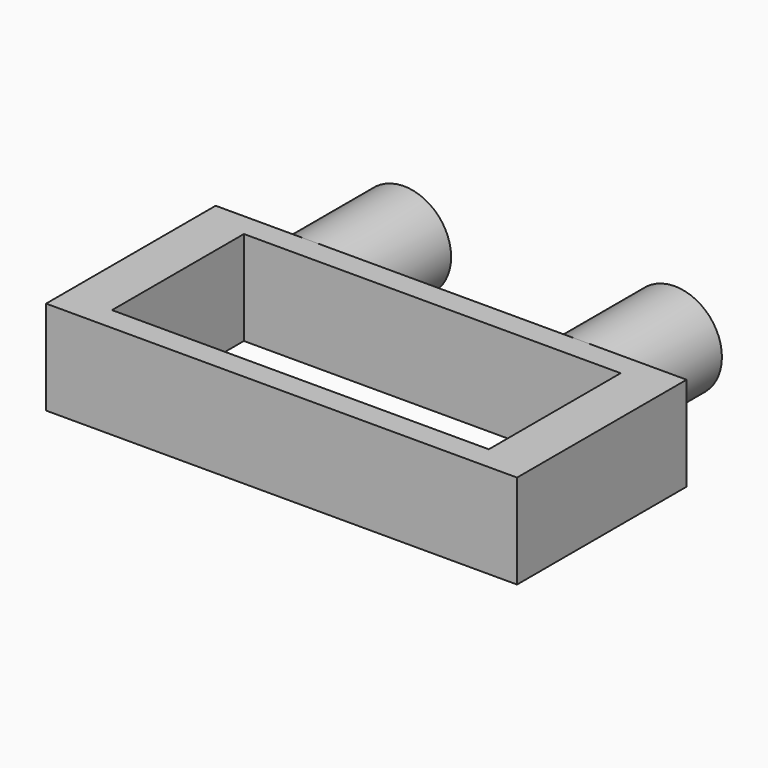
from build123d import *

# Parameters (mm, degrees)
CYLINDER_R             = 4
CYLINDER_DEPTH         = 10
CYLINDER_ROLL_ANGLE    = 90
CYLINDER001_R          = 4
CYLINDER001_DEPTH      = 10
CYLINDER001_ROLL_ANGLE = 90
SKETCH_W               = 40
SKETCH_H               = 18
SKETCH_W_2             = 32
SKETCH_H_2             = 14
PAD_DEPTH              = 4


with BuildPart() as cylinder:
    # Cylinder → Cylinder (new body)
    with BuildSketch(Plane.XY):
        Circle(CYLINDER_R)
    extrude(amount=CYLINDER_DEPTH)


with BuildPart() as cylinder_1:
    # Cylinder roll: moved
    add(cylinder.part.rotate(Axis((0, 0, 0), (1, 0, 0)), CYLINDER_ROLL_ANGLE))


with BuildPart() as cylinder_2:
    # Cylinder placement: moved
    add(cylinder_1.part)


with BuildPart() as cylinder001:
    # Cylinder001 → Cylinder001 (new body)
    with BuildSketch(Plane.XY):
        Circle(CYLINDER001_R)
    extrude(amount=CYLINDER001_DEPTH)


with BuildPart() as cylinder001_1:
    # Cylinder001 roll: moved
    add(cylinder001.part.rotate(Axis((0, 0, 0), (1, 0, 0)), CYLINDER001_ROLL_ANGLE))


with BuildPart() as cylinder001_2:
    # Cylinder001 placement: moved
    add(cylinder001_1.part.moved(Location((23, 0, 0))))


with BuildPart() as pad:
    # Sketch → Pad (new body, symmetric)
    with BuildSketch(Plane(origin=(12, -10, 0), x_dir=(1, 0, 0), z_dir=(0, 0, 1))):
        with Locations((0, -9)):
            Rectangle(SKETCH_W, SKETCH_H)
        with Locations((0, -9)):
            Rectangle(SKETCH_W_2, SKETCH_H_2, mode=Mode.SUBTRACT)
    extrude(amount=PAD_DEPTH, both=True)


solid = Compound([cylinder_2.part, cylinder001_2.part, pad.part])
